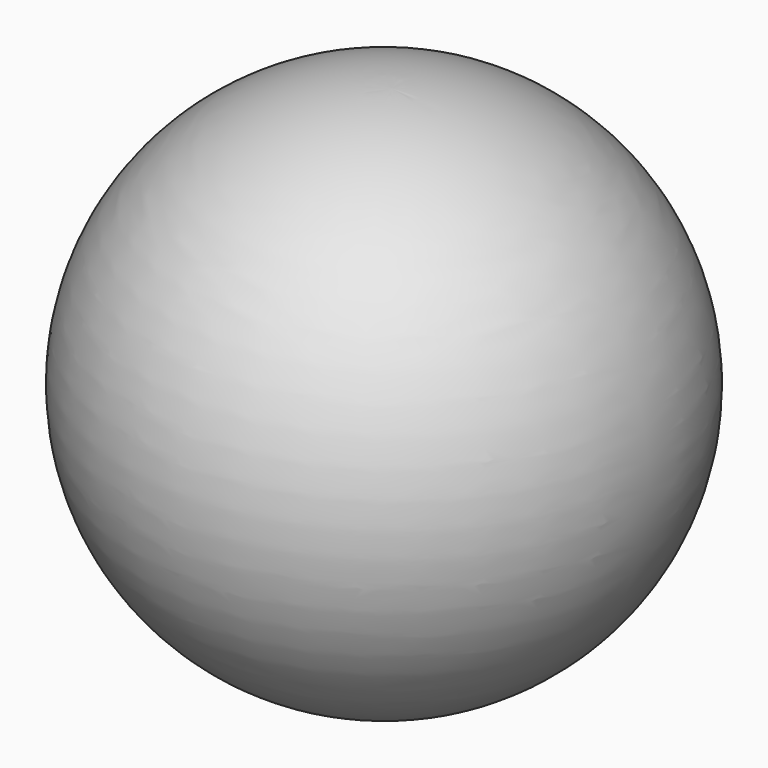
from build123d import *

# Parameters (mm, degrees)
F2_SCALE = 0.33


with BuildPart() as f1:
    # F0 (on Front) → F1 (revolve)
    with BuildSketch(Plane.XZ):
        with BuildLine():
            Line((-6.1686027562, 14.5381416282), (-6.5625510467, 1.8442531481))
            ThreePointArc((-6.5625510467, 1.8442531481), (0.0110017283, 7.9933035549), (-6.1686027562, 14.5381416282))
        make_face()
    revolve(axis=Axis((-6.3655769014, 0, 8.1911973882), (-0.0310195504, 0, -0.999518778)))


with BuildPart() as f1_1:
    # F2: moved
    add(f1.part.scale(F2_SCALE))


solid = f1_1.part
